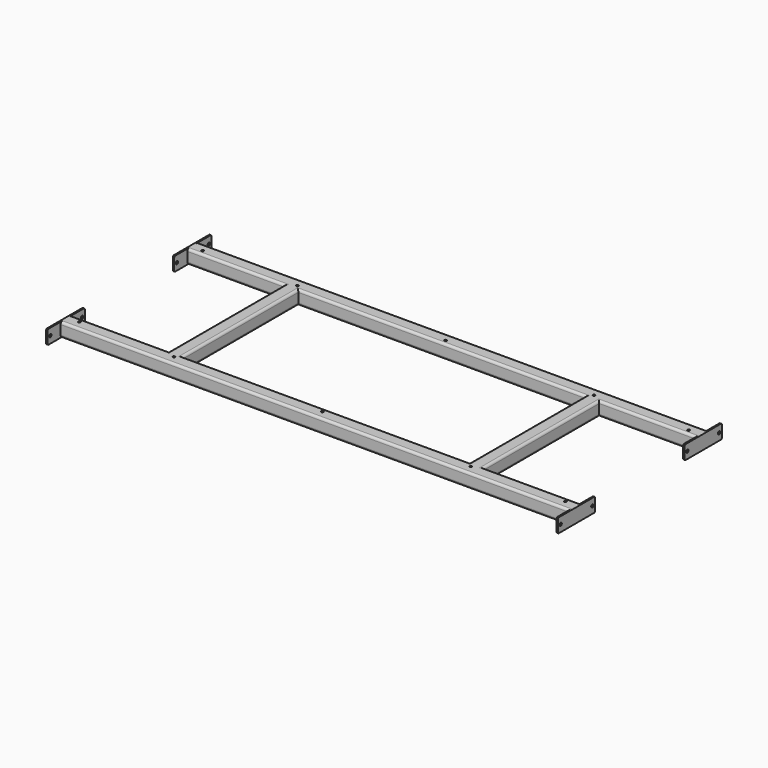
from build123d import *

# Parameters (mm, degrees)
F0_W      = 614
F0_H      = 309
F1_DEPTH  = 30
F2_T      = -3
F3_W      = 35
F3_H      = 30
F3_W_2    = 30
F3_W_3    = 24
F3_H_2    = 24
F4_DEPTH  = 3
F6_SIZE   = 2
F7_R      = 5
F8_R      = 3
F10_D     = 6.4
F10_DEPTH = 3
F10_TIP   = 1.9227539809
F13_D     = 5


with BuildPart() as f1:
    # F0 (on Top) → F1 (new body)
    with BuildSketch(Plane.XY):
        Polygon((-337, -154.5), (-544.5, -154.5), (-544.5, -184.5), (544.5, -184.5), (544.5, -154.5), (337, -154.5), (337, 154.5), (544.5, 154.5), (544.5, 184.5), (-544.5, 184.5), (-544.5, 154.5), (-337, 154.5), align=None)
        Rectangle(F0_W, F0_H, mode=Mode.SUBTRACT)
    extrude(amount=-F1_DEPTH)

    # F2
    f2_openings = [f1.faces().sort_by_distance(p)[0] for p in [
        (-544.5, -169.5, -15),
        (-544.5, 169.5, -15),
        (544.5, 169.5, -15),
        (544.5, -169.5, -15),
    ]]
    offset(amount=F2_T, openings=f2_openings, kind=Kind.INTERSECTION)

    # F7
    f7_edges = [f1.edges().sort_by_distance(p)[0] for p in [
        (0, -184.5, -30),
        (-440.75, -154.5, -30),
        (-337, 0, -30),
        (-307, 0, -30),
        (0, -154.5, -30),
        (-440.75, 154.5, -30),
        (0, 184.5, -30),
        (307, 0, -30),
        (337, 0, -30),
        (0, 154.5, -30),
        (440.75, 154.5, -30),
        (0, 184.5, 0),
        (-440.75, 154.5, 0),
        (0, 154.5, 0),
        (-337, 0, 0),
        (-307, 0, 0),
        (-440.75, -154.5, 0),
        (0, -154.5, 0),
        (307, 0, 0),
        (337, 0, 0),
        (440.75, -154.5, 0),
        (440.75, 154.5, 0),
        (440.75, -154.5, -30),
        (0, -184.5, 0),
    ]]
    fillet(f7_edges, radius=F7_R)

    # F8
    f8_edges = [f1.edges().sort_by_distance(p)[0] for p in [
        (-439.25, 157.5, -3),
        (-439.25, 157.5, -27),
        (0, 181.5, -27),
        (0, 181.5, -3),
        (0, -181.5, -3),
        (439.25, -157.5, -3),
        (439.25, -157.5, -27),
        (0, -181.5, -27),
    ]]
    fillet(f8_edges, radius=F8_R)



with BuildPart() as f4:
    # F3 (on face) → F4 (new body)
    with BuildSketch(Plane(origin=(-544.5, 0, 0), x_dir=(0, -1, 0), z_dir=(-1, 0, 0))):
        with Locations((202, -15)):
            Rectangle(F3_W, F3_H)
        with Locations((137, -15)):
            Rectangle(F3_W, F3_H)
        with Locations((169.5, -15)):
            Rectangle(F3_W_2, F3_H)
        with Locations((169.5, -15)):
            Rectangle(F3_W_3, F3_H_2, mode=Mode.SUBTRACT)
        with Locations((169.5, -15)):
            Rectangle(F3_W_3, F3_H_2)
    extrude(amount=F4_DEPTH)

    # F6
    f6_edges = [f4.edges().sort_by_distance(p)[0] for p in [
        (-546, -219.5, -30),
        (-546, -219.5, 0),
        (-546, -119.5, -30),
        (-546, -119.5, 0),
    ]]
    chamfer(f6_edges, length=F6_SIZE)

    # F10
    with Locations(Plane(origin=(-547.5, 0, 0), x_dir=(0, -1, 0), z_dir=(-1, 0, 0))):
        with Locations((127, -15), (212, -15)):
            Hole(F10_D / 2, depth=F10_DEPTH)
            with Locations((0, 0, -(F10_DEPTH + F10_TIP / 2))):  # 118° drill point
                Cone(0, F10_D / 2, F10_TIP, mode=Mode.SUBTRACT)


with BuildPart() as f11_1:
    # F11: instance of F4
    add(f4.part.mirror(Plane.YZ))


with BuildPart() as f1_1:
    add(f1.part)

    add(f4.part)  # F12 merges F4

    add(f11_1.part)  # F12 merges F11_1
    # F12: F4, F11_1 across plane
    add(f4.part.mirror(Plane.XZ))
    add(f11_1.part.mirror(Plane.XZ))

    # F13 (through all)
    with Locations(Plane.XY):
        with Locations((-520, 165), (-317.5, 165), (0, 165), (317.5, 165), (520, 165), (520, -165), (317.5, -165), (0, -165), (-317.5, -165), (-520, -165)):
            Hole(F13_D / 2)


solid = f1_1.part
